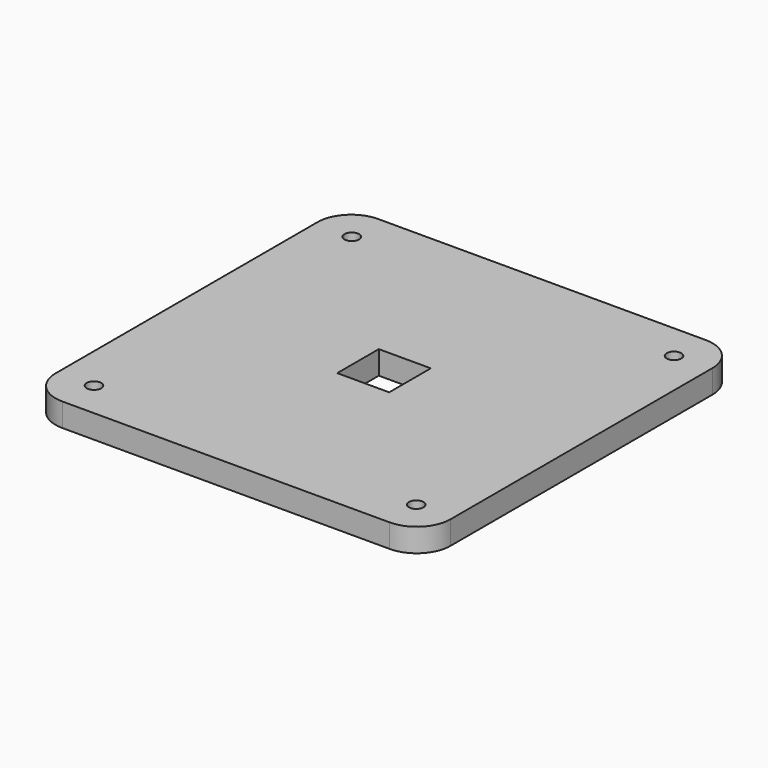
from build123d import *

# Parameters (mm, degrees)
F0_R     = 1.4
F0_W     = 10
F0_H     = 10
F1_DEPTH = 4.5


with BuildPart() as f1:
    # F0 (on Top) → F1 (new body)
    with BuildSketch(Plane.XY):
        with BuildLine():
            Line((-31.5, -38), (31.5, -38))
            ThreePointArc((31.5, -38), (36.096194, -36.096194), (38, -31.5))
            Line((38, -31.5), (38, 31.5))
            ThreePointArc((38, 31.5), (36.096194, 36.096194), (31.5, 38))
            Line((31.5, 38), (-31.5, 38))
            ThreePointArc((-31.5, 38), (-36.096194, 36.096194), (-38, 31.5))
            Line((-38, 31.5), (-38, -31.5))
            ThreePointArc((-38, -31.5), (-36.096194, -36.096194), (-31.5, -38))
        make_face()
        with Locations((-31, -31)):
            Circle(F0_R, mode=Mode.SUBTRACT)
        with Locations((31, -31)):
            Circle(F0_R, mode=Mode.SUBTRACT)
        with Locations((-31, 31)):
            Circle(F0_R, mode=Mode.SUBTRACT)
        Rectangle(F0_W, F0_H, mode=Mode.SUBTRACT)
        with Locations((31, 31)):
            Circle(F0_R, mode=Mode.SUBTRACT)
    extrude(amount=F1_DEPTH)


solid = f1.part
